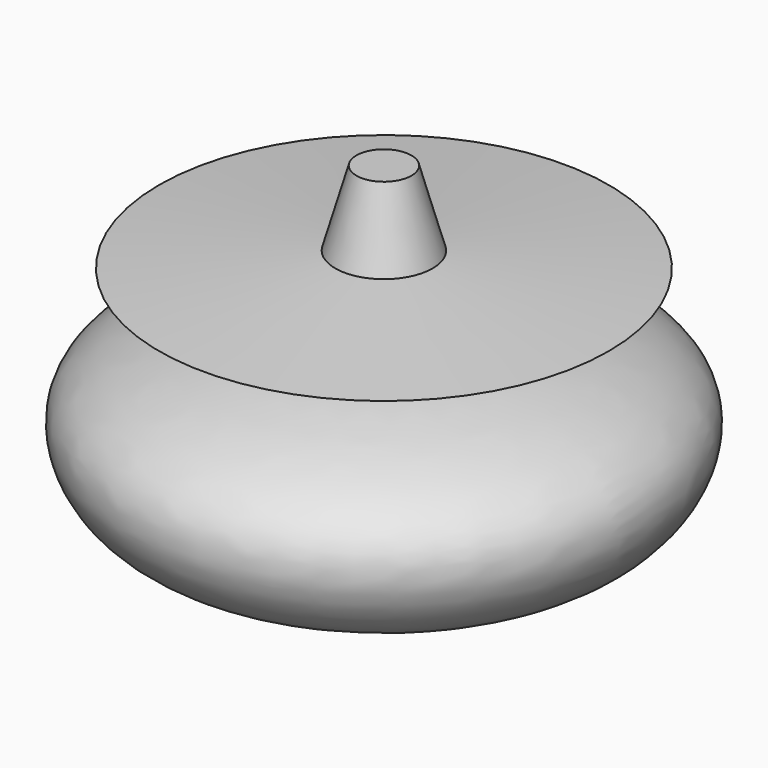
from build123d import *


with BuildPart() as f1:
    # F0 (on Front) → F1 (revolve)
    with BuildSketch(Plane.XZ):
        with BuildLine():
            Line((0, 78.1559348106), (0, 0))
            add(Edge.make_bspline(
                [(0, 0), (4.1735065026, 6.4397300284), (13.1403208072, 20.2755449004), (44.9120824859, 10.1695426259), (62.1874689221, 42.5181045927), (18.553396796, 52.4030593315), (9.1512207903, 51.429649369), (5.5621932261, 51.0580763221)],
                knots=[0, 0, 0, 0, 0.1901335855, 0.4085036295, 0.6004783243, 0.8474933563, 1, 1, 1, 1], degree=3))
            Line((5.5621932261, 51.0580763221), (45.4958826303, 59.9005371332))
            Line((45.4958826303, 59.9005371332), (9.8408013582, 63.0381852388))
            Line((9.8408013582, 63.0381852388), (5.5621932261, 78.1559348106))
            Line((5.5621932261, 78.1559348106), (0, 78.1559348106))
        make_face()
    revolve(axis=Axis((0, 0, 39.0779674053), (0, 0, -1)))


solid = f1.part
